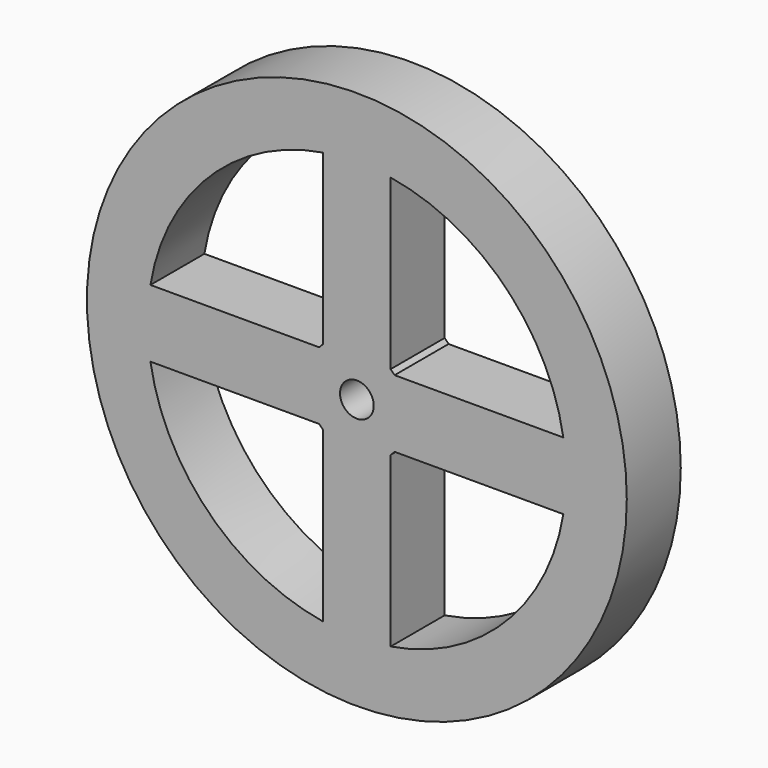
from build123d import *

# Parameters (mm, degrees)
F0_R     = 40
F0_R_2   = 2.5
F1_DEPTH = 10


with BuildPart() as f1:
    # F0 (on Front) → F1 (new body)
    with BuildSketch(Plane.XZ):
        Circle(F0_R)
        with BuildLine():
            Line((-30.5941170816, -5), (-5.5901699437, -5))
            ThreePointArc((-5.5901699437, -5), (-5.3033008589, -5.3033008589), (-5, -5.5901699437))
            Line((-5, -5.5901699437), (-5, -30.5941170816))
            ThreePointArc((-5, -30.5941170816), (-21.9203102168, -21.9203102168), (-30.5941170816, -5))
        make_face(mode=Mode.SUBTRACT)
        with BuildLine():
            ThreePointArc((5, -5.5901699437), (5.3033008589, -5.3033008589), (5.5901699437, -5))
            Line((5.5901699437, -5), (30.5941170816, -5))
            ThreePointArc((30.5941170816, -5), (21.9203102168, -21.9203102168), (5, -30.5941170816))
            Line((5, -30.5941170816), (5, -5.5901699437))
        make_face(mode=Mode.SUBTRACT)
        with BuildLine():
            ThreePointArc((-30.5941170816, 5), (-21.9203102168, 21.9203102168), (-5, 30.5941170816))
            Line((-5, 30.5941170816), (-5, 5.5901699437))
            ThreePointArc((-5, 5.5901699437), (-5.3033008589, 5.3033008589), (-5.5901699437, 5))
            Line((-5.5901699437, 5), (-30.5941170816, 5))
        make_face(mode=Mode.SUBTRACT)
        Circle(F0_R_2, mode=Mode.SUBTRACT)
        with BuildLine():
            Line((30.5941170816, 5), (5.5901699437, 5))
            ThreePointArc((5.5901699437, 5), (5.3033008589, 5.3033008589), (5, 5.5901699437))
            Line((5, 5.5901699437), (5, 30.5941170816))
            ThreePointArc((5, 30.5941170816), (21.9203102168, 21.9203102168), (30.5941170816, 5))
        make_face(mode=Mode.SUBTRACT)
    extrude(amount=F1_DEPTH)


solid = f1.part
